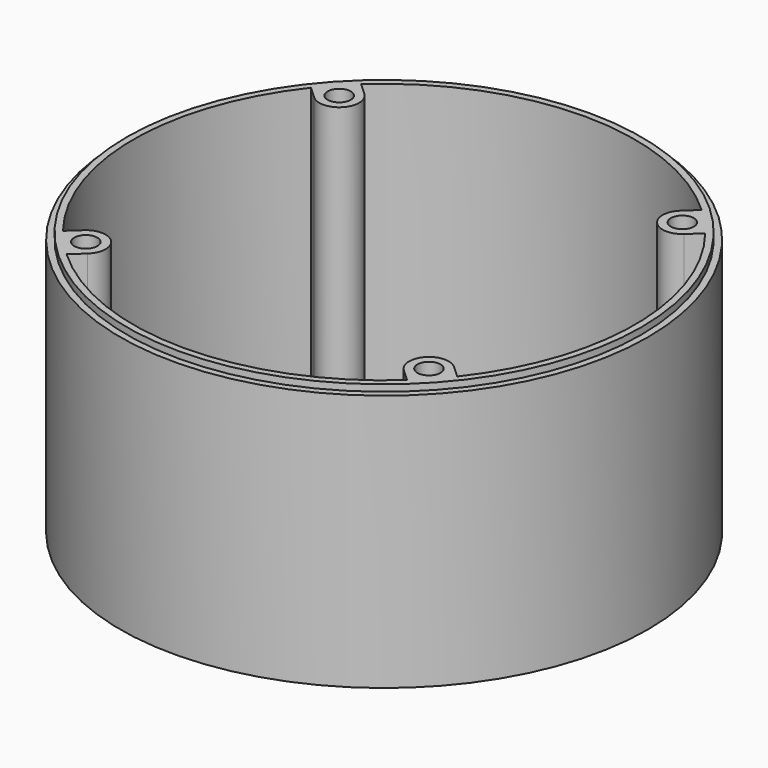
from build123d import *

# Parameters (mm, degrees)
SKETCH001_R = 1.75
PAD_DEPTH   = 40


with BuildPart() as part:
    # Sketch → Revolution (revolve)
    with BuildSketch(Plane.XZ):
        Polygon((38, 0), (38, 40), (39, 40), (39, 39), (40, 39), (40, 0), align=None)
    revolve(axis=Axis((0, 0, 0), (0, 0, 1)))

    # Sketch001 → Pad (new body)
    with BuildSketch(Plane(origin=(0, 0, 0), x_dir=(1, 0, 0), z_dir=(0, 0, -1))):
        with BuildLine():
            ThreePointArc((23.9651596918, 26.2044103339), (23.7955896661, 21.9651596918), (28.0348403082, 21.7955896661))
            Line((28.0348403082, 21.7955896661), (29.957371204, 23.57023357))
            Line((29.957371204, 23.57023357), (25.8876905876, 27.9790542377))
            Line((25.8876905876, 27.9790542377), (23.9651596918, 26.2044103339))
        make_face()
        with Locations((26, 24)):
            Circle(SKETCH001_R, mode=Mode.SUBTRACT)
        with BuildLine():
            ThreePointArc((28.0348403082, -21.7955896661), (23.7955896661, -21.9651596918), (23.9651596918, -26.2044103339))
            Line((25.8876905876, -27.9790542377), (23.9651596918, -26.2044103339))
            Line((29.957371204, -23.57023357), (25.8876905876, -27.9790542377))
            Line((28.0348403082, -21.7955896661), (29.957371204, -23.57023357))
        make_face()
        with Locations((26, -24)):
            Circle(SKETCH001_R, mode=Mode.SUBTRACT)
    pad = extrude(amount=-PAD_DEPTH)

    # Mirrored: Pad across Sketch001 V_Axis
    add(pad.mirror(Plane(origin=(0, 0, 0), x_dir=(0, 0, -1), z_dir=(1, 0, 0))))


solid = part.part
